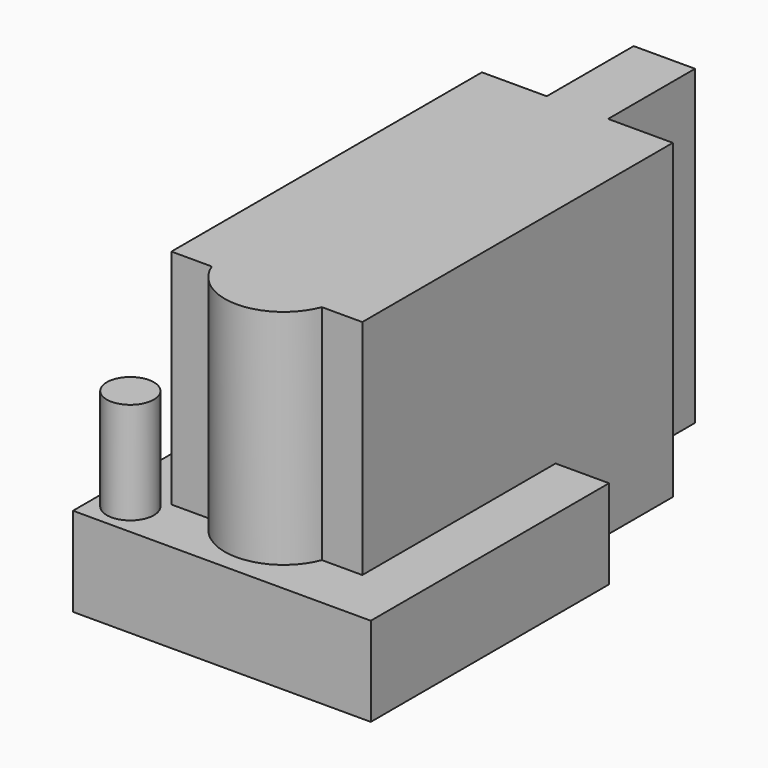
from build123d import *

# Parameters (mm, degrees)
F1_DEPTH = 31.115
F0_R     = 2.350014
F2_DEPTH = 8.89
F3_DEPTH = 19.05


with BuildPart() as f1:
    # F0 (on Top) → F1 (new body)
    with BuildSketch(Plane.XY):
        with BuildLine():
            Line((-32.274887, 32.790409), (-32.274887, 18.16624))
            Line((-32.274887, 18.16624), (-32.274887, -5.944591))
            Line((-32.274887, -5.944591), (-28.24577, -5.944591))
            ThreePointArc((-28.24577, -5.944591), (-22.749887, -9.722416), (-17.254004, -5.944591))
            Line((-17.254004, -5.944591), (-13.224887, -5.944591))
            Line((-13.224887, -5.944591), (-13.224887, 18.16624))
            Line((-13.224887, 18.16624), (-13.224887, 32.790409))
            Line((-13.224887, 32.790409), (-19.685246, 32.790929))
            Line((-19.685246, 32.790929), (-19.685246, 43.633332))
            Line((-19.685246, 43.633332), (-25.806736, 43.633332))
            Line((-25.806736, 43.633332), (-25.806736, 32.790929))
            Line((-25.806736, 32.790929), (-32.274887, 32.790409))
        make_face()
    extrude(amount=F1_DEPTH)

    # F0 (on Top) → F2 (join)
    with BuildSketch(Plane.XY):
        with BuildLine():
            Line((-37.608887, 18.16624), (-37.608887, -11.55176))
            Line((-37.608887, -11.55176), (-7.890887, -11.55176))
            Line((-7.890887, -11.55176), (-7.890887, 18.16624))
            Line((-7.890887, 18.16624), (-13.224887, 18.16624))
            Line((-13.224887, 18.16624), (-13.224887, -5.944591))
            Line((-13.224887, -5.944591), (-17.254004, -5.944591))
            ThreePointArc((-17.254004, -5.944591), (-22.749887, -9.722416), (-28.24577, -5.944591))
            Line((-28.24577, -5.944591), (-32.274887, -5.944591))
            Line((-32.274887, -5.944591), (-32.274887, 18.16624))
            Line((-32.274887, 18.16624), (-37.608887, 18.16624))
        make_face()
        with Locations((-34.560874, -8.21091)):
            Circle(F0_R, mode=Mode.SUBTRACT)
    extrude(amount=F2_DEPTH)

    # F0 (on Top) → F3 (join)
    with BuildSketch(Plane.XY):
        with Locations((-34.560874, -8.21091)):
            Circle(F0_R)
    extrude(amount=F3_DEPTH)


solid = f1.part
